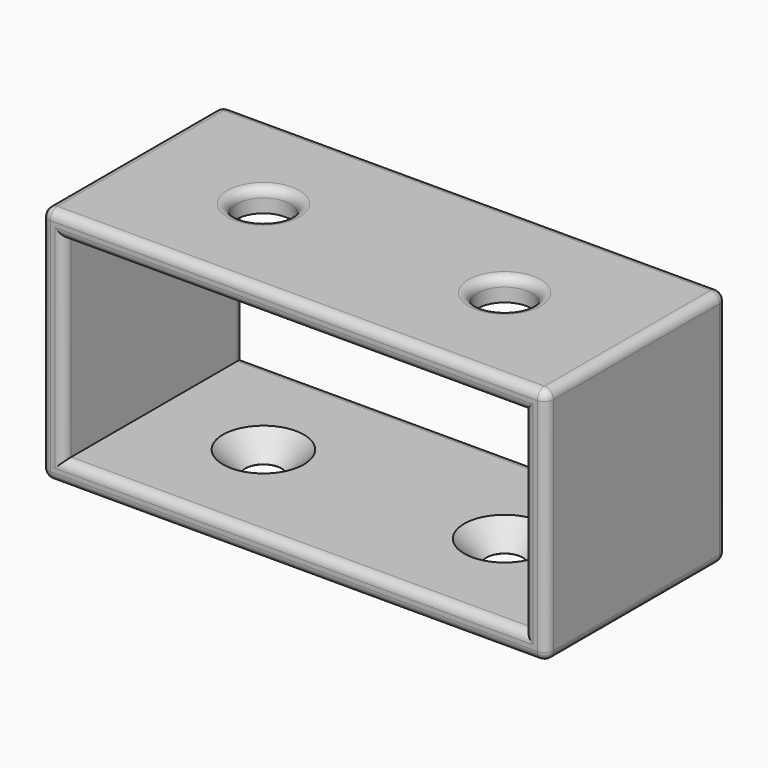
from build123d import *

# Parameters (mm, degrees)
SKETCH_W          = 56
SKETCH_H          = 26.5
PAD_DEPTH         = 25
SKETCH001_W       = 51
SKETCH001_H       = 21.5
POCKET_DEPTH      = 0.001
POCKET_DEPTH_BACK = 25.001
SKETCH002_R       = 3
POCKET001_DEPTH   = 3.5
SKETCH003_R       = 2
POCKET002_DEPTH   = 2.5
CHAMFER_SIZE      = 2.485
FILLET_R          = 1


with BuildPart() as part:
    # Sketch → Pad (new body)
    with BuildSketch(Plane.XZ):
        Rectangle(SKETCH_W, SKETCH_H)
    extrude(amount=PAD_DEPTH)

    # Sketch001 → Pocket (cut, two sides)
    with BuildSketch(Plane.XZ) as pocket_sk:
        Rectangle(SKETCH001_W, SKETCH001_H)
    extrude(amount=-POCKET_DEPTH, mode=Mode.SUBTRACT)
    extrude(pocket_sk.sketch, amount=POCKET_DEPTH_BACK, mode=Mode.SUBTRACT)

    # Sketch002 (on DatumPlane) → Pocket001 (cut)
    with BuildSketch(Plane(origin=(0, 0, 13.25), x_dir=(-1, 0, 0), z_dir=(0, 0, 1))):
        with Locations((-13.375, 12.5)):
            Circle(SKETCH002_R)
        with Locations((13.375, 12.5)):
            Circle(SKETCH002_R)
    extrude(amount=-POCKET001_DEPTH, mode=Mode.SUBTRACT)

    # Sketch003 (on DatumPlane) → Pocket002 (cut)
    with BuildSketch(Plane(origin=(0, 0, -10.75), x_dir=(-1, 0, 0), z_dir=(0, 0, 1))):
        with Locations((-13.375, 12.5)):
            Circle(SKETCH003_R)
        with Locations((13.375, 12.5)):
            Circle(SKETCH003_R)
    extrude(amount=-POCKET002_DEPTH, mode=Mode.SUBTRACT)

    # Chamfer
    chamfer_edges = [part.edges().sort_by_distance(p)[0] for p in [
        (-11.375, -12.5, -10.75),
        (15.375, -12.5, -10.75),
    ]]
    chamfer(chamfer_edges, length=CHAMFER_SIZE)

    # Fillet
    fillet_edges = [part.edges().sort_by_distance(p)[0] for p in [
        (-28, -25, 0),
        (0, -25, 13.25),
        (0, -25, -13.25),
        (28, -25, 0),
        (-25.5, -25, 0),
        (0, -25, 10.75),
        (25.5, -25, 0),
        (0, -25, -10.75),
        (-28, 0, 0),
        (0, 0, 13.25),
        (0, 0, -13.25),
        (28, 0, 0),
        (-25.5, 0, 0),
        (0, 0, 10.75),
        (25.5, 0, 0),
        (0, 0, -10.75),
        (28, -12.5, 13.25),
        (28, -12.5, -13.25),
        (-28, -12.5, -13.25),
        (-28, -12.5, 13.25),
        (16.375, -12.5, 13.25),
        (-10.375, -12.5, 13.25),
    ]]
    fillet(fillet_edges, radius=FILLET_R)


solid = part.part
